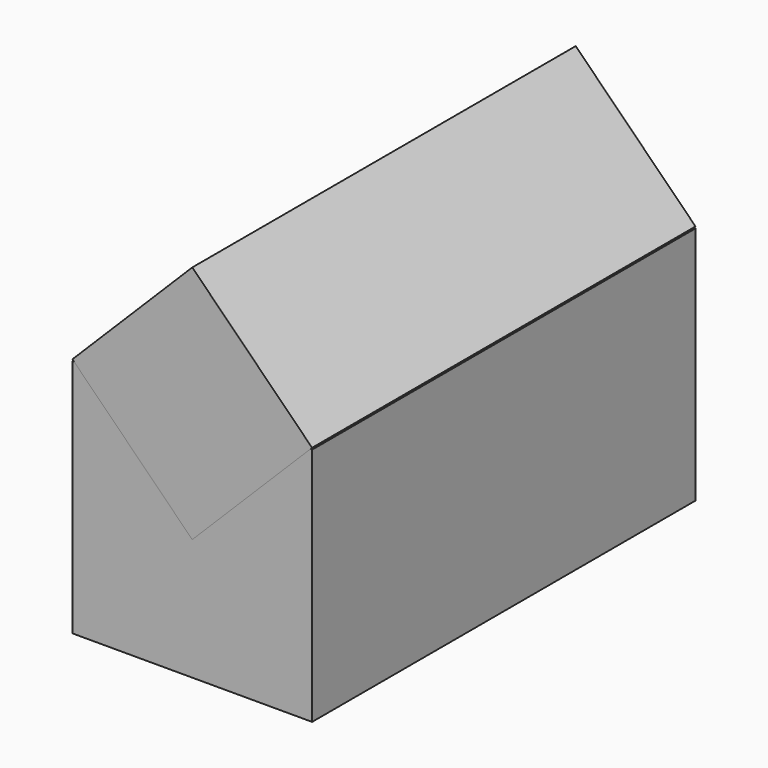
from build123d import *

# Parameters (mm, degrees)
BOX_W                  = 10
BOX_H                  = 20
BOX_DEPTH              = 10
BOX001_W               = 7.07
BOX001_H               = 20
BOX001_DEPTH           = 7.07
BOX001_PLACEMENT_ANGLE = 45


with BuildPart() as cub:
    # Box → Box (new body)
    with BuildSketch(Plane.XY):
        with Locations((5, 10)):
            Rectangle(BOX_W, BOX_H)
    extrude(amount=BOX_DEPTH)


with BuildPart() as cub001:
    # Box001 → Box001 (new body)
    with BuildSketch(Plane.XY):
        with Locations((3.535, 10)):
            Rectangle(BOX001_W, BOX001_H)
    extrude(amount=BOX001_DEPTH)


with BuildPart() as cub001_1:
    # Box001 placement: moved
    add(cub001.part.moved(Location((0, 0, 10.07))).rotate(Axis((0, 0, 10.07), (0, 1, 0)), BOX001_PLACEMENT_ANGLE))


solid = Compound([cub.part, cub001_1.part])
